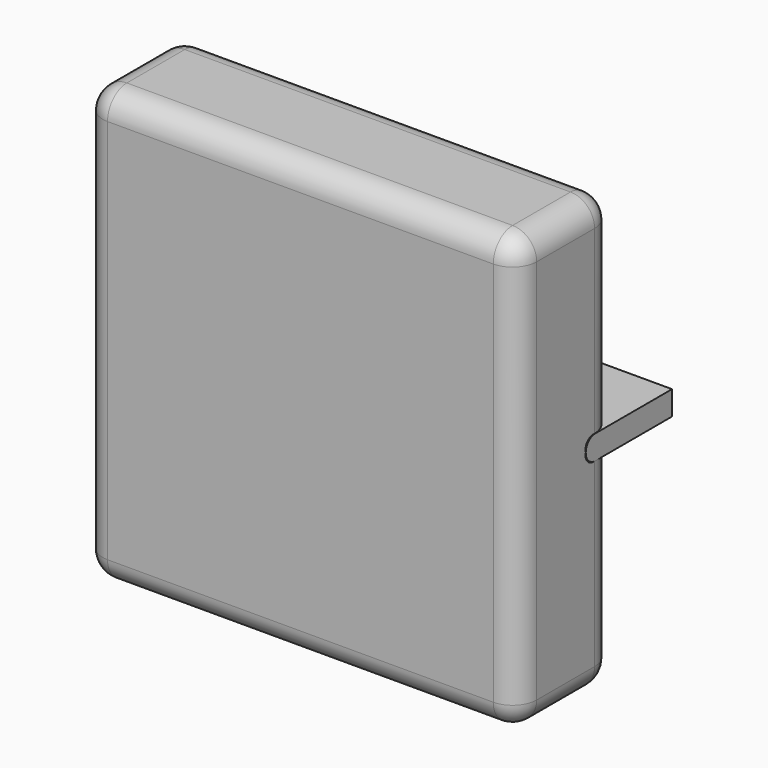
from build123d import *

# Parameters (mm, degrees)
PAD_DEPTH    = 0.5
FILLET006_R  = 0.49
BOX001_W     = 1
BOX001_H     = 5
BOX001_DEPTH = 10
FILLET_R     = 0.4
BOX002_W     = 1
BOX002_H     = 5
BOX002_DEPTH = 10
BOX_W        = 17.99
BOX_H        = 5
BOX_DEPTH    = 17.99
FILLET002_R  = 1
FILLET003_R  = 1
FILLET004_R  = 1
FILLET005_R  = 1


with BuildPart() as pad:
    # Sketch → Pad (new body, symmetric)
    with BuildSketch(Plane.XY):
        Polygon((9, 0.528981), (9, 5), (-9, 5), (-9, 0.528981), (-6, 0), (6, 0), align=None)
    extrude(amount=PAD_DEPTH, both=True)


with BuildPart() as fillet006:
    # Fillet006 base: copy of Pad
    add(pad.part)

    # Fillet006
    fillet006_edges = [fillet006.edges().sort_by_distance(p)[0] for p in [
        (-7.5, 0.26449, -0.5),
        (-7.5, 0.26449, 0.5),
        (0, 0, 0.5),
        (0, 0, -0.5),
        (7.5, 0.26449, 0.5),
        (7.5, 0.26449, -0.5),
    ]]
    fillet(fillet006_edges, radius=FILLET006_R)


with BuildPart() as cube001:
    # Box001 → Box001 (new body)
    with BuildSketch(Plane(origin=(-6, 0, -5), x_dir=(1, 0, 0), z_dir=(0, 0, 1))):
        with Locations((0.5, 2.5)):
            Rectangle(BOX001_W, BOX001_H)
    extrude(amount=BOX001_DEPTH)


with BuildPart() as fillet_body:
    # Fillet base: copy of Pad
    add(pad.part)

    # Fillet
    fillet_edges = [fillet_body.edges().sort_by_distance(p)[0] for p in [
        (-7.5, 0.26449, 0.5),
        (-7.5, 0.26449, -0.5),
        (0, 0, 0.5),
        (0, 0, -0.5),
        (7.5, 0.26449, 0.5),
        (7.5, 0.26449, -0.5),
    ]]
    fillet(fillet_edges, radius=FILLET_R)


with BuildPart() as fusion:
    # Box002 → Box002 (new body)
    with BuildSketch(Plane(origin=(5, 0, -5), x_dir=(1, 0, 0), z_dir=(0, 0, 1))):
        with Locations((0.5, 2.5)):
            Rectangle(BOX002_W, BOX002_H)
    extrude(amount=BOX002_DEPTH)

    # Fusion: union Cube001, Fillet body
    add(cube001.part)
    add(fillet_body.part)


with BuildPart() as cut:
    # Box → Box (new body)
    with BuildSketch(Plane(origin=(-9, -3, -9), x_dir=(1, 0, 0), z_dir=(0, 0, 1))):
        with Locations((8.995, 2.5)):
            Rectangle(BOX_W, BOX_H)
    extrude(amount=BOX_DEPTH)

    # Fillet002
    fillet002_edges = [cut.edges().sort_by_distance(p)[0] for p in [
        (-9, -0.5, -9),
        (-9, -0.5, 8.99),
        (8.99, -0.5, 8.99),
    ]]
    fillet(fillet002_edges, radius=FILLET002_R)

    # Fillet003
    fillet003_edges = [cut.edges().sort_by_distance(p)[0] for p in [
        (8.99, -0.5, -9),
    ]]
    fillet(fillet003_edges, radius=FILLET003_R)

    # Fillet004
    fillet004_edges = [cut.edges().sort_by_distance(p)[0] for p in [
        (-0.005, 2, -9),
        (8.697107, 2, -8.707107),
        (-8.707107, 2, -8.707107),
        (8.99, 2, -0.005),
        (-9, 2, -0.005),
        (8.697107, 2, 8.697107),
        (-8.707107, 2, 8.697107),
        (-0.005, 2, 8.99),
    ]]
    fillet(fillet004_edges, radius=FILLET004_R)

    # Fillet005
    fillet005_edges = [cut.edges().sort_by_distance(p)[0] for p in [
        (-0.005, -3, -9),
        (8.697107, -3, -8.707107),
        (-8.707107, -3, -8.707107),
        (8.99, -3, -0.005),
        (-9, -3, -0.005),
        (8.697107, -3, 8.697107),
        (-8.707107, -3, 8.697107),
        (-0.005, -3, 8.99),
    ]]
    fillet(fillet005_edges, radius=FILLET005_R)

    # Cut: cut Fusion
    add(fusion.part, mode=Mode.SUBTRACT)


solid = Compound([fillet006.part, cut.part])
